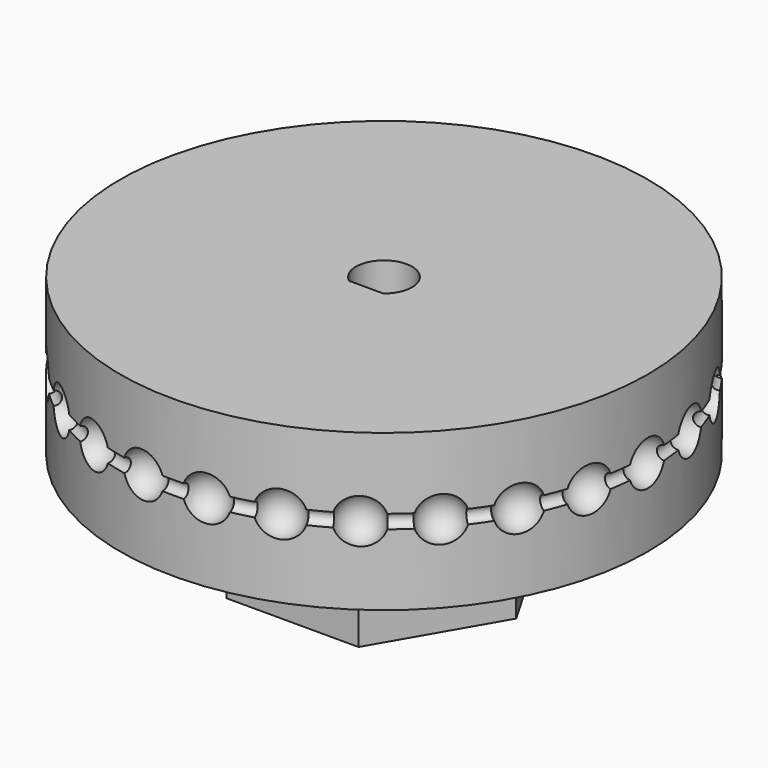
from build123d import *

# Parameters (mm, degrees)
REFINEROTATEEXTRUDE_R         = 0.6475
ROTATEEXTRUDE_ROLL_ANGLE      = 90
ROTATEEXTRUDE_PLACEMENT_ANGLE = -90
SPHERE001_PLACEMENT_ANGLE     = 27.6923
SPHERE002_PLACEMENT_ANGLE     = 41.538467
SPHERE003_PLACEMENT_ANGLE     = 55.384608
SPHERE004_PLACEMENT_ANGLE     = 69.230758
SPHERE005_PLACEMENT_ANGLE     = 83.076906
SPHERE006_PLACEMENT_ANGLE     = 96.923094
SPHERE007_PLACEMENT_ANGLE     = 110.769242
SPHERE008_PLACEMENT_ANGLE     = 124.615392
SPHERE009_PLACEMENT_ANGLE     = 138.461533
SPHERE010_PLACEMENT_ANGLE     = 152.3077
SPHERE011_PLACEMENT_ANGLE     = 166.15383
SPHERE013_PLACEMENT_ANGLE     = 193.84617
SPHERE014_PLACEMENT_ANGLE     = 207.6923
SPHERE015_PLACEMENT_ANGLE     = 221.538467
SPHERE016_PLACEMENT_ANGLE     = 235.384608
SPHERE017_PLACEMENT_ANGLE     = 110.769242
SPHERE018_PLACEMENT_ANGLE     = 96.923094
SPHERE019_PLACEMENT_ANGLE     = 83.076906
SPHERE020_PLACEMENT_ANGLE     = 69.230758
SPHERE021_PLACEMENT_ANGLE     = 55.384608
SPHERE022_PLACEMENT_ANGLE     = 41.538467
SPHERE023_PLACEMENT_ANGLE     = 27.6923
SPHERE024_PLACEMENT_ANGLE     = 13.84617
SPHERE_PLACEMENT_ANGLE        = 13.84617
CYLINDER_R                    = 24.9523
CYLINDER_DEPTH                = 14.7525
POCKET003_DEPTH               = 10
POCKET003_DEPTH_BACK          = 100
PAD_DEPTH                     = 10
POCKET_DEPTH                  = 10
BINDER002_W                   = 3.5
BINDER002_H                   = 8
POCKET001_DEPTH               = 9
BINDER003_R                   = 2
POCKET002_DEPTH               = 10.826318


with BuildPart() as rotateextrude:
    # RefineRotateExtrude → RotateExtrude (revolve)
    with BuildSketch(Plane(origin=(24.9523, 0, 0), x_dir=(0, 1, 0), z_dir=(0, 0, 1))):
        Circle(REFINEROTATEEXTRUDE_R)
    revolve(axis=Axis((0, 0, 0), (0, 1, 0)))


with BuildPart() as rotateextrude_1:
    # RotateExtrude roll: moved
    add(rotateextrude.part.rotate(Axis((0, 0, 0), (1, 0, 0)), ROTATEEXTRUDE_ROLL_ANGLE))


with BuildPart() as rotateextrude_2:
    # RotateExtrude placement: moved
    add(rotateextrude_1.part.rotate(Axis((0, 0, 0), (0, 0, 1)), ROTATEEXTRUDE_PLACEMENT_ANGLE))


with BuildPart() as sphere001:
    # sphere001 → sphere001 (revolve)
    with BuildSketch(Plane.XZ):
        with BuildLine():
            ThreePointArc((0, -2.1075), (2.1075, 0), (0, 2.1075))
            Line((0, 2.1075), (0, -2.1075))
        make_face()
    revolve(axis=Axis((0, 0, 0), (0, 0, 1)))


with BuildPart() as sphere001_1:
    # sphere001 placement: moved
    add(sphere001.part.moved(Location((22.094166, 11.595909, 0))).rotate(Axis((22.094166, 11.595909, 0), (0, 0, 1)), SPHERE001_PLACEMENT_ANGLE))


with BuildPart() as sphere002:
    # sphere002 → sphere002 (revolve)
    with BuildSketch(Plane.XZ):
        with BuildLine():
            ThreePointArc((0, -2.1075), (2.1075, 0), (0, 2.1075))
            Line((0, 2.1075), (0, -2.1075))
        make_face()
    revolve(axis=Axis((0, 0, 0), (0, 0, 1)))


with BuildPart() as sphere002_1:
    # sphere002 placement: moved
    add(sphere002.part.moved(Location((18.677063, 16.546437, 0))).rotate(Axis((18.677063, 16.546437, 0), (0, 0, 1)), SPHERE002_PLACEMENT_ANGLE))


with BuildPart() as sphere003:
    # sphere003 → sphere003 (revolve)
    with BuildSketch(Plane.XZ):
        with BuildLine():
            ThreePointArc((0, -2.1075), (2.1075, 0), (0, 2.1075))
            Line((0, 2.1075), (0, -2.1075))
        make_face()
    revolve(axis=Axis((0, 0, 0), (0, 0, 1)))


with BuildPart() as sphere003_1:
    # sphere003 placement: moved
    add(sphere003.part.moved(Location((14.174525, 20.535338, 0))).rotate(Axis((14.174525, 20.535338, 0), (0, 0, 1)), SPHERE003_PLACEMENT_ANGLE))


with BuildPart() as sphere004:
    # sphere004 → sphere004 (revolve)
    with BuildSketch(Plane.XZ):
        with BuildLine():
            ThreePointArc((0, -2.1075), (2.1075, 0), (0, 2.1075))
            Line((0, 2.1075), (0, -2.1075))
        make_face()
    revolve(axis=Axis((0, 0, 0), (0, 0, 1)))


with BuildPart() as sphere004_1:
    # sphere004 placement: moved
    add(sphere004.part.moved(Location((8.848212, 23.330804, 0))).rotate(Axis((8.848212, 23.330804, 0), (0, 0, 1)), SPHERE004_PLACEMENT_ANGLE))


with BuildPart() as sphere005:
    # sphere005 → sphere005 (revolve)
    with BuildSketch(Plane.XZ):
        with BuildLine():
            ThreePointArc((0, -2.1075), (2.1075, 0), (0, 2.1075))
            Line((0, 2.1075), (0, -2.1075))
        make_face()
    revolve(axis=Axis((0, 0, 0), (0, 0, 1)))


with BuildPart() as sphere005_1:
    # sphere005 placement: moved
    add(sphere005.part.moved(Location((3.007675, 24.770369, 0))).rotate(Axis((3.007675, 24.770369, 0), (0, 0, 1)), SPHERE005_PLACEMENT_ANGLE))


with BuildPart() as sphere006:
    # sphere006 → sphere006 (revolve)
    with BuildSketch(Plane.XZ):
        with BuildLine():
            ThreePointArc((0, -2.1075), (2.1075, 0), (0, 2.1075))
            Line((0, 2.1075), (0, -2.1075))
        make_face()
    revolve(axis=Axis((0, 0, 0), (0, 0, 1)))


with BuildPart() as sphere006_1:
    # sphere006 placement: moved
    add(sphere006.part.moved(Location((-3.007675, 24.770369, 0))).rotate(Axis((-3.007675, 24.770369, 0), (0, 0, 1)), SPHERE006_PLACEMENT_ANGLE))


with BuildPart() as sphere007:
    # sphere007 → sphere007 (revolve)
    with BuildSketch(Plane.XZ):
        with BuildLine():
            ThreePointArc((0, -2.1075), (2.1075, 0), (0, 2.1075))
            Line((0, 2.1075), (0, -2.1075))
        make_face()
    revolve(axis=Axis((0, 0, 0), (0, 0, 1)))


with BuildPart() as sphere007_1:
    # sphere007 placement: moved
    add(sphere007.part.moved(Location((-8.848212, 23.330804, 0))).rotate(Axis((-8.848212, 23.330804, 0), (0, 0, 1)), SPHERE007_PLACEMENT_ANGLE))


with BuildPart() as sphere008:
    # sphere008 → sphere008 (revolve)
    with BuildSketch(Plane.XZ):
        with BuildLine():
            ThreePointArc((0, -2.1075), (2.1075, 0), (0, 2.1075))
            Line((0, 2.1075), (0, -2.1075))
        make_face()
    revolve(axis=Axis((0, 0, 0), (0, 0, 1)))


with BuildPart() as sphere008_1:
    # sphere008 placement: moved
    add(sphere008.part.moved(Location((-14.174525, 20.535338, 0))).rotate(Axis((-14.174525, 20.535338, 0), (0, 0, 1)), SPHERE008_PLACEMENT_ANGLE))


with BuildPart() as sphere009:
    # sphere009 → sphere009 (revolve)
    with BuildSketch(Plane.XZ):
        with BuildLine():
            ThreePointArc((0, -2.1075), (2.1075, 0), (0, 2.1075))
            Line((0, 2.1075), (0, -2.1075))
        make_face()
    revolve(axis=Axis((0, 0, 0), (0, 0, 1)))


with BuildPart() as sphere009_1:
    # sphere009 placement: moved
    add(sphere009.part.moved(Location((-18.677063, 16.546437, 0))).rotate(Axis((-18.677063, 16.546437, 0), (0, 0, 1)), SPHERE009_PLACEMENT_ANGLE))


with BuildPart() as sphere010:
    # sphere010 → sphere010 (revolve)
    with BuildSketch(Plane.XZ):
        with BuildLine():
            ThreePointArc((0, -2.1075), (2.1075, 0), (0, 2.1075))
            Line((0, 2.1075), (0, -2.1075))
        make_face()
    revolve(axis=Axis((0, 0, 0), (0, 0, 1)))


with BuildPart() as sphere010_1:
    # sphere010 placement: moved
    add(sphere010.part.moved(Location((-22.094166, 11.595909, 0))).rotate(Axis((-22.094166, 11.595909, 0), (0, 0, 1)), SPHERE010_PLACEMENT_ANGLE))


with BuildPart() as sphere011:
    # sphere011 → sphere011 (revolve)
    with BuildSketch(Plane.XZ):
        with BuildLine():
            ThreePointArc((0, -2.1075), (2.1075, 0), (0, 2.1075))
            Line((0, 2.1075), (0, -2.1075))
        make_face()
    revolve(axis=Axis((0, 0, 0), (0, 0, 1)))


with BuildPart() as sphere011_1:
    # sphere011 placement: moved
    add(sphere011.part.moved(Location((-24.22723, 5.971483, 0))).rotate(Axis((-24.22723, 5.971483, 0), (0, 0, 1)), SPHERE011_PLACEMENT_ANGLE))


with BuildPart() as sphere012:
    # sphere012 → sphere012 (revolve)
    with BuildSketch(Plane(origin=(-24.9523, 0, 0), x_dir=(-1, 0, 0), z_dir=(0, 1, 0))):
        with BuildLine():
            ThreePointArc((0, -2.1075), (2.1075, 0), (0, 2.1075))
            Line((0, 2.1075), (0, -2.1075))
        make_face()
    revolve(axis=Axis((-24.9523, 0, 0), (0, 0, 1)))


with BuildPart() as sphere013:
    # sphere013 → sphere013 (revolve)
    with BuildSketch(Plane.XZ):
        with BuildLine():
            ThreePointArc((0, -2.1075), (2.1075, 0), (0, 2.1075))
            Line((0, 2.1075), (0, -2.1075))
        make_face()
    revolve(axis=Axis((0, 0, 0), (0, 0, 1)))


with BuildPart() as sphere013_1:
    # sphere013 placement: moved
    add(sphere013.part.moved(Location((-24.22723, -5.971483, 0))).rotate(Axis((-24.22723, -5.971483, 0), (0, 0, 1)), SPHERE013_PLACEMENT_ANGLE))


with BuildPart() as sphere014:
    # sphere014 → sphere014 (revolve)
    with BuildSketch(Plane.XZ):
        with BuildLine():
            ThreePointArc((0, -2.1075), (2.1075, 0), (0, 2.1075))
            Line((0, 2.1075), (0, -2.1075))
        make_face()
    revolve(axis=Axis((0, 0, 0), (0, 0, 1)))


with BuildPart() as sphere014_1:
    # sphere014 placement: moved
    add(sphere014.part.moved(Location((-22.094166, -11.595909, 0))).rotate(Axis((-22.094166, -11.595909, 0), (0, 0, 1)), SPHERE014_PLACEMENT_ANGLE))


with BuildPart() as sphere015:
    # sphere015 → sphere015 (revolve)
    with BuildSketch(Plane.XZ):
        with BuildLine():
            ThreePointArc((0, -2.1075), (2.1075, 0), (0, 2.1075))
            Line((0, 2.1075), (0, -2.1075))
        make_face()
    revolve(axis=Axis((0, 0, 0), (0, 0, 1)))


with BuildPart() as sphere015_1:
    # sphere015 placement: moved
    add(sphere015.part.moved(Location((-18.677063, -16.546437, 0))).rotate(Axis((-18.677063, -16.546437, 0), (0, 0, 1)), SPHERE015_PLACEMENT_ANGLE))


with BuildPart() as sphere016:
    # sphere016 → sphere016 (revolve)
    with BuildSketch(Plane.XZ):
        with BuildLine():
            ThreePointArc((0, -2.1075), (2.1075, 0), (0, 2.1075))
            Line((0, 2.1075), (0, -2.1075))
        make_face()
    revolve(axis=Axis((0, 0, 0), (0, 0, 1)))


with BuildPart() as sphere016_1:
    # sphere016 placement: moved
    add(sphere016.part.moved(Location((-14.174525, -20.535338, 0))).rotate(Axis((-14.174525, -20.535338, 0), (0, 0, 1)), SPHERE016_PLACEMENT_ANGLE))


with BuildPart() as sphere017:
    # sphere017 → sphere017 (revolve)
    with BuildSketch(Plane.XZ):
        with BuildLine():
            ThreePointArc((0, -2.1075), (2.1075, 0), (0, 2.1075))
            Line((0, 2.1075), (0, -2.1075))
        make_face()
    revolve(axis=Axis((0, 0, 0), (0, 0, 1)))


with BuildPart() as sphere017_1:
    # sphere017 placement: moved
    add(sphere017.part.moved(Location((-8.848212, -23.330804, 0))).rotate(Axis((-8.848212, -23.330804, 0), (0, 0, -1)), SPHERE017_PLACEMENT_ANGLE))


with BuildPart() as sphere018:
    # sphere018 → sphere018 (revolve)
    with BuildSketch(Plane.XZ):
        with BuildLine():
            ThreePointArc((0, -2.1075), (2.1075, 0), (0, 2.1075))
            Line((0, 2.1075), (0, -2.1075))
        make_face()
    revolve(axis=Axis((0, 0, 0), (0, 0, 1)))


with BuildPart() as sphere018_1:
    # sphere018 placement: moved
    add(sphere018.part.moved(Location((-3.007675, -24.770369, 0))).rotate(Axis((-3.007675, -24.770369, 0), (0, 0, -1)), SPHERE018_PLACEMENT_ANGLE))


with BuildPart() as sphere019:
    # sphere019 → sphere019 (revolve)
    with BuildSketch(Plane.XZ):
        with BuildLine():
            ThreePointArc((0, -2.1075), (2.1075, 0), (0, 2.1075))
            Line((0, 2.1075), (0, -2.1075))
        make_face()
    revolve(axis=Axis((0, 0, 0), (0, 0, 1)))


with BuildPart() as sphere019_1:
    # sphere019 placement: moved
    add(sphere019.part.moved(Location((3.007675, -24.770369, 0))).rotate(Axis((3.007675, -24.770369, 0), (0, 0, -1)), SPHERE019_PLACEMENT_ANGLE))


with BuildPart() as sphere020:
    # sphere020 → sphere020 (revolve)
    with BuildSketch(Plane.XZ):
        with BuildLine():
            ThreePointArc((0, -2.1075), (2.1075, 0), (0, 2.1075))
            Line((0, 2.1075), (0, -2.1075))
        make_face()
    revolve(axis=Axis((0, 0, 0), (0, 0, 1)))


with BuildPart() as sphere020_1:
    # sphere020 placement: moved
    add(sphere020.part.moved(Location((8.848212, -23.330804, 0))).rotate(Axis((8.848212, -23.330804, 0), (0, 0, -1)), SPHERE020_PLACEMENT_ANGLE))


with BuildPart() as sphere021:
    # sphere021 → sphere021 (revolve)
    with BuildSketch(Plane.XZ):
        with BuildLine():
            ThreePointArc((0, -2.1075), (2.1075, 0), (0, 2.1075))
            Line((0, 2.1075), (0, -2.1075))
        make_face()
    revolve(axis=Axis((0, 0, 0), (0, 0, 1)))


with BuildPart() as sphere021_1:
    # sphere021 placement: moved
    add(sphere021.part.moved(Location((14.174525, -20.535338, 0))).rotate(Axis((14.174525, -20.535338, 0), (0, 0, -1)), SPHERE021_PLACEMENT_ANGLE))


with BuildPart() as sphere022:
    # sphere022 → sphere022 (revolve)
    with BuildSketch(Plane.XZ):
        with BuildLine():
            ThreePointArc((0, -2.1075), (2.1075, 0), (0, 2.1075))
            Line((0, 2.1075), (0, -2.1075))
        make_face()
    revolve(axis=Axis((0, 0, 0), (0, 0, 1)))


with BuildPart() as sphere022_1:
    # sphere022 placement: moved
    add(sphere022.part.moved(Location((18.677063, -16.546437, 0))).rotate(Axis((18.677063, -16.546437, 0), (0, 0, -1)), SPHERE022_PLACEMENT_ANGLE))


with BuildPart() as sphere023:
    # sphere023 → sphere023 (revolve)
    with BuildSketch(Plane.XZ):
        with BuildLine():
            ThreePointArc((0, -2.1075), (2.1075, 0), (0, 2.1075))
            Line((0, 2.1075), (0, -2.1075))
        make_face()
    revolve(axis=Axis((0, 0, 0), (0, 0, 1)))


with BuildPart() as sphere023_1:
    # sphere023 placement: moved
    add(sphere023.part.moved(Location((22.094166, -11.595909, 0))).rotate(Axis((22.094166, -11.595909, 0), (0, 0, -1)), SPHERE023_PLACEMENT_ANGLE))


with BuildPart() as sphere024:
    # sphere024 → sphere024 (revolve)
    with BuildSketch(Plane.XZ):
        with BuildLine():
            ThreePointArc((0, -2.1075), (2.1075, 0), (0, 2.1075))
            Line((0, 2.1075), (0, -2.1075))
        make_face()
    revolve(axis=Axis((0, 0, 0), (0, 0, 1)))


with BuildPart() as sphere024_1:
    # sphere024 placement: moved
    add(sphere024.part.moved(Location((24.22723, -5.971483, 0))).rotate(Axis((24.22723, -5.971483, 0), (0, 0, -1)), SPHERE024_PLACEMENT_ANGLE))


with BuildPart() as sphere025:
    # sphere025 → sphere025 (revolve)
    with BuildSketch(Plane(origin=(24.9523, 0, 0), x_dir=(1, 0, 0), z_dir=(0, -1, 0))):
        with BuildLine():
            ThreePointArc((0, -2.1075), (2.1075, 0), (0, 2.1075))
            Line((0, 2.1075), (0, -2.1075))
        make_face()
    revolve(axis=Axis((24.9523, 0, 0), (0, 0, 1)))


with BuildPart() as group001:
    # sphere → sphere (revolve)
    with BuildSketch(Plane.XZ):
        with BuildLine():
            ThreePointArc((0, -2.1075), (2.1075, 0), (0, 2.1075))
            Line((0, 2.1075), (0, -2.1075))
        make_face()
    revolve(axis=Axis((0, 0, 0), (0, 0, 1)))


with BuildPart() as group001_1:
    # sphere placement: moved
    add(group001.part.moved(Location((24.22723, 5.971483, 0))).rotate(Axis((24.22723, 5.971483, 0), (0, 0, 1)), SPHERE_PLACEMENT_ANGLE))

    # Group001: union sphere001, sphere002, sphere003, sphere004, sphere005, sphere006, sphere007, sphere008, sphere009, sphere010, sphere011, sphere012, sphere013, sphere014, sphere015, sphere016, sphere017, sphere018, sphere019, sphere020, sphere021, sphere022, sphere023, sphere024, sphere025
    add(sphere001_1.part)
    add(sphere002_1.part)
    add(sphere003_1.part)
    add(sphere004_1.part)
    add(sphere005_1.part)
    add(sphere006_1.part)
    add(sphere007_1.part)
    add(sphere008_1.part)
    add(sphere009_1.part)
    add(sphere010_1.part)
    add(sphere011_1.part)
    add(sphere012.part)
    add(sphere013_1.part)
    add(sphere014_1.part)
    add(sphere015_1.part)
    add(sphere016_1.part)
    add(sphere017_1.part)
    add(sphere018_1.part)
    add(sphere019_1.part)
    add(sphere020_1.part)
    add(sphere021_1.part)
    add(sphere022_1.part)
    add(sphere023_1.part)
    add(sphere024_1.part)
    add(sphere025.part)


with BuildPart() as obj1:
    # cylinder → cylinder (new body)
    with BuildSketch(Plane.XY.offset(-7.37625)):
        Circle(CYLINDER_R)
    extrude(amount=CYLINDER_DEPTH)

    # difference: cut Group001
    add(group001_1.part, mode=Mode.SUBTRACT)

    # difference001: cut RotateExtrude
    add(rotateextrude_2.part, mode=Mode.SUBTRACT)


with BuildPart() as obj1_1:
    # difference001 placement: moved
    add(obj1.part.moved(Location((0, 0, 17))))


with BuildPart() as obj1_2:
    # BaseFeature placement: moved
    add(obj1_1.part.moved(Location((0, 0, -17))))

    # Binder004 → Pocket003 (cut, two sides)
    with BuildSketch(Plane(origin=(0, 0.13502, -17), x_dir=(0, 1, 0), z_dir=(0, 0, 1))) as pocket003_sk:
        with BuildLine():
            ThreePointArc((-2.23502, -1.616323), (2.51498, 0), (-2.23502, 1.616323))
            Line((-2.23502, 1.616323), (-2.23502, -1.616323))
        make_face()
    extrude(amount=-POCKET003_DEPTH, mode=Mode.SUBTRACT)
    extrude(pocket003_sk.sketch, amount=POCKET003_DEPTH_BACK, mode=Mode.SUBTRACT)


with BuildPart() as obj1_3:
    # Body001 placement: moved
    add(obj1_2.part.moved(Location((0, 0, 17))))


with BuildPart() as fusion:
    # Binder → Pad (new body)
    with BuildSketch(Plane(origin=(0, 0, 0), x_dir=(0, 1, 0), z_dir=(0, 0, 1))):
        Polygon((0, -12.5), (10.825318, -6.25), (10.825318, 6.25), (0, 12.5), (-10.825318, 6.25), (-10.825318, -6.25), align=None)
    extrude(amount=PAD_DEPTH)

    # Binder001 → Pocket (cut)
    with BuildSketch(Plane(origin=(0, 0.13502, 0), x_dir=(0, 1, 0), z_dir=(0, 0, 1))):
        with BuildLine():
            ThreePointArc((-2.23502, -1.616323), (2.51498, 0), (-2.23502, 1.616323))
            Line((-2.23502, 1.616323), (-2.23502, -1.616323))
        make_face()
    extrude(amount=POCKET_DEPTH, mode=Mode.SUBTRACT)

    # Binder002 → Pocket001 (cut)
    with BuildSketch(Plane(origin=(0, -6.75, 0), x_dir=(0, 1, 0), z_dir=(0, 0, 1))):
        Rectangle(BINDER002_W, BINDER002_H)
    extrude(amount=POCKET001_DEPTH, mode=Mode.SUBTRACT)

    # Binder003 → Pocket002 (cut, through all)
    with BuildSketch(Plane(origin=(0, 0, 4.5), x_dir=(1, 0, 0), z_dir=(0, 1, 0))):
        Circle(BINDER003_R)
    extrude(amount=-POCKET002_DEPTH, mode=Mode.SUBTRACT)

    # Fusion: union obj1
    add(obj1_3.part)


solid = fusion.part
